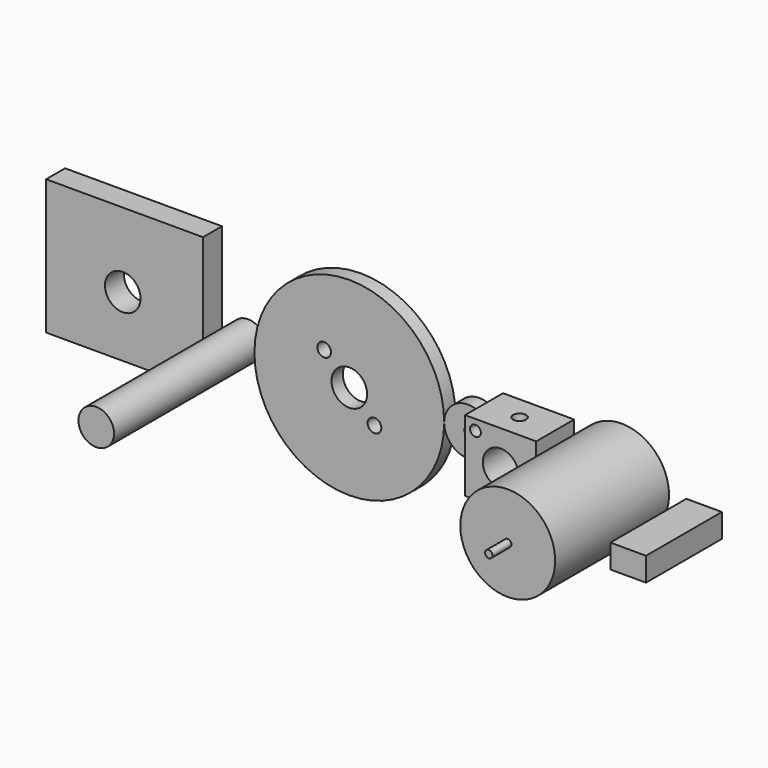
from build123d import *

# Parameters (mm, degrees)
F0_R      = 1.8288
F0_R_2    = 4.7625
F0_R_3    = 0.9906
F1_DEPTH  = 3.81
F0_R_4    = 1.4351
F2_DEPTH  = 12.7
F3_DEPTH  = 38.1
F4_R      = 0.9906
F5_DEPTH  = 6.35
F0_W      = 9.525
F0_H      = 6.35
F6_DEPTH  = 25.4
F7_R      = 1.7272
F8_DEPTH  = 34.926
F9_DEPTH  = 50.8
F0_W_2    = 42.012974
F0_H_2    = 36.143516
F10_DEPTH = 6.35


with BuildPart() as f1:
    # F0 (on Front) → F1 (new body)
    with BuildSketch(Plane.XZ):
        with BuildLine():
            ThreePointArc((-57.15, 0), (-31.75, -25.4), (-6.35, 0))
            ThreePointArc((-6.35, 0), (-31.75, 25.4), (-57.15, 0))
        make_face()
        with Locations((-25.014808, -6.735192)):
            Circle(F0_R, mode=Mode.SUBTRACT)
        with Locations((-31.75, 0)):
            Circle(F0_R_2, mode=Mode.SUBTRACT)
        with Locations((-38.485192, 6.735192)):
            Circle(F0_R, mode=Mode.SUBTRACT)
        with BuildLine():
            ThreePointArc((-6.35, 0), (0, -6.35), (6.35, 0))
            ThreePointArc((6.35, 0), (0, 6.35), (-6.35, 0))
        make_face()
        Circle(F0_R_3, mode=Mode.SUBTRACT)
    extrude(amount=F1_DEPTH)

    # F0 (on Front) → F2 (join)
    with BuildSketch(Plane.XZ):
        Polygon((6.35, 9.525), (6.35, 0), (6.35, -9.525), (25.4, -9.525), (25.4, 0), (25.4, 9.525), align=None)
        with Locations((15.875, 0)):
            Circle(F0_R_2, mode=Mode.SUBTRACT)
        with Locations((22.610192, -6.735192)):
            Circle(F0_R_4, mode=Mode.SUBTRACT)
        with Locations((9.139808, 6.735192)):
            Circle(F0_R_4, mode=Mode.SUBTRACT)
    extrude(amount=F2_DEPTH)

    # F0 (on Front) → F3 (join)
    with BuildSketch(Plane.XZ):
        with BuildLine():
            ThreePointArc((50.8, 0), (38.1, 12.7), (25.4, 0))
            ThreePointArc((25.4, 0), (38.1, -12.7), (50.8, 0))
        make_face()
    extrude(amount=F3_DEPTH)

    # F4 (on face) → F5 (join)
    with BuildSketch(Plane.XZ.offset(38.1)):
        with Locations((38.1, 0)):
            Circle(F4_R)
    extrude(amount=F5_DEPTH)

    # F7 (on face) → F8 (cut, through all)
    with BuildSketch(Plane.XY.offset(9.525)):
        with Locations((15.875, -6.35)):
            Circle(F7_R)
    extrude(amount=-F8_DEPTH, mode=Mode.SUBTRACT)

    # F0 (on Front) → F9 (join)
    with BuildSketch(Plane.XZ):
        with Locations((-61.9125, 0)):
            Circle(F0_R_2)
    extrude(amount=F9_DEPTH)


with BuildPart() as f6:
    # F0 (on Front) → F6 (new body)
    with BuildSketch(Plane.XZ):
        with Locations((60.196544, -2.582707)):
            Rectangle(F0_W, F0_H)
    extrude(amount=F6_DEPTH)


with BuildPart() as f10:
    # F0 (on Front) → F10 (new body)
    with BuildSketch(Plane.XZ):
        with Locations((-89.895405, 6.332839)):
            Rectangle(F0_W_2, F0_H_2)
        with Locations((-90.367973, 4.488509)):
            Circle(F0_R_2, mode=Mode.SUBTRACT)
    extrude(amount=F10_DEPTH)


solid = Compound([f1.part, f6.part, f10.part])
